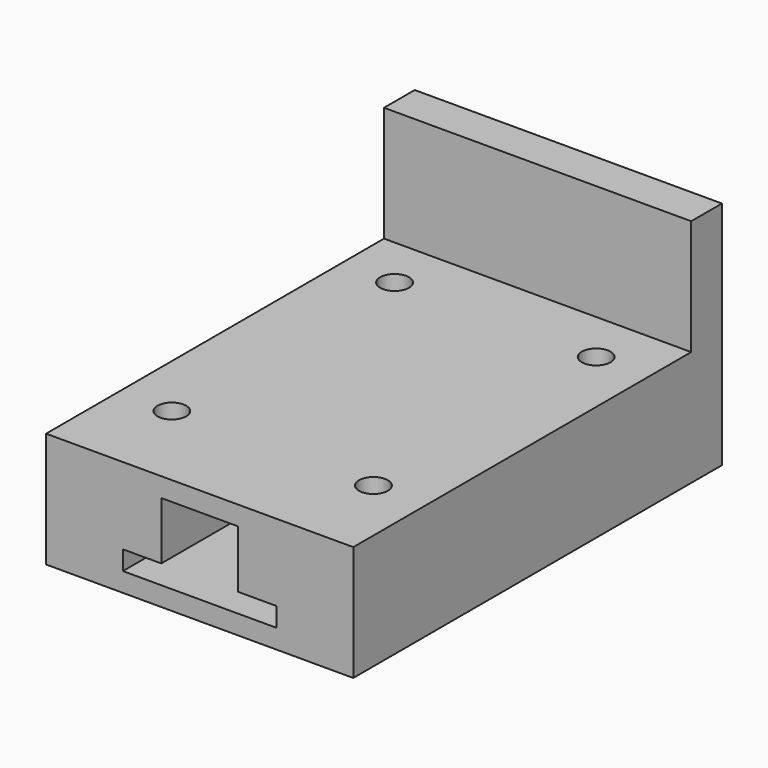
from build123d import *

# Parameters (mm, degrees)
F0_W     = 203.2
F0_H     = 76.2
F1_DEPTH = 304.8
F2_W     = 203.2
F2_H     = 25.4
F3_DEPTH = 76.2
F4_R     = 9.525
F4_R_2   = 6.35
F5_DEPTH = 19.05
F6_DEPTH = 76.201


with BuildPart() as f1:
    # F0 (on Front) → F1 (new body)
    with BuildSketch(Plane.XZ):
        with Locations((0, -38.1)):
            Rectangle(F0_W, F0_H)
        Polygon((-50.8, -63.5), (-50.8, -50.8), (-25.4, -50.8), (-25.4, -12.7), (25.4, -12.7), (25.4, -50.8), (50.8, -50.8), (50.8, -63.5), align=None, mode=Mode.SUBTRACT)
    extrude(amount=F1_DEPTH)

    # F2 (on Top) → F3 (join, symmetric)
    with BuildSketch(Plane.XY):
        with Locations((0, -12.7)):
            Rectangle(F2_W, F2_H)
    extrude(amount=F3_DEPTH, both=True)

    # F4 (on Top) → F5 (cut)
    with BuildSketch(Plane.XY):
        with Locations((-66.675, -60.325)):
            Circle(F4_R)
        with Locations((-66.675, -60.325)):
            Circle(F4_R_2, mode=Mode.SUBTRACT)
        with Locations((66.675, -60.325)):
            Circle(F4_R)
        with Locations((66.675, -60.325)):
            Circle(F4_R_2, mode=Mode.SUBTRACT)
        with Locations((66.675, -244.475)):
            Circle(F4_R)
        with Locations((66.675, -244.475)):
            Circle(F4_R_2, mode=Mode.SUBTRACT)
        with Locations((-66.675, -244.475)):
            Circle(F4_R)
        with Locations((-66.675, -244.475)):
            Circle(F4_R_2, mode=Mode.SUBTRACT)
    extrude(amount=-F5_DEPTH, mode=Mode.SUBTRACT)

    # F6 (cut, through all): faces of the model
    f6_faces = [f1.faces().sort_by_distance(p)[0] for p in [
        (-66.675, -60.325, 0),
        (66.675, -60.325, 0),
        (-66.675, -244.475, 0),
        (66.675, -244.475, 0),
    ]]
    extrude(f6_faces, amount=-F6_DEPTH, mode=Mode.SUBTRACT)


solid = f1.part
